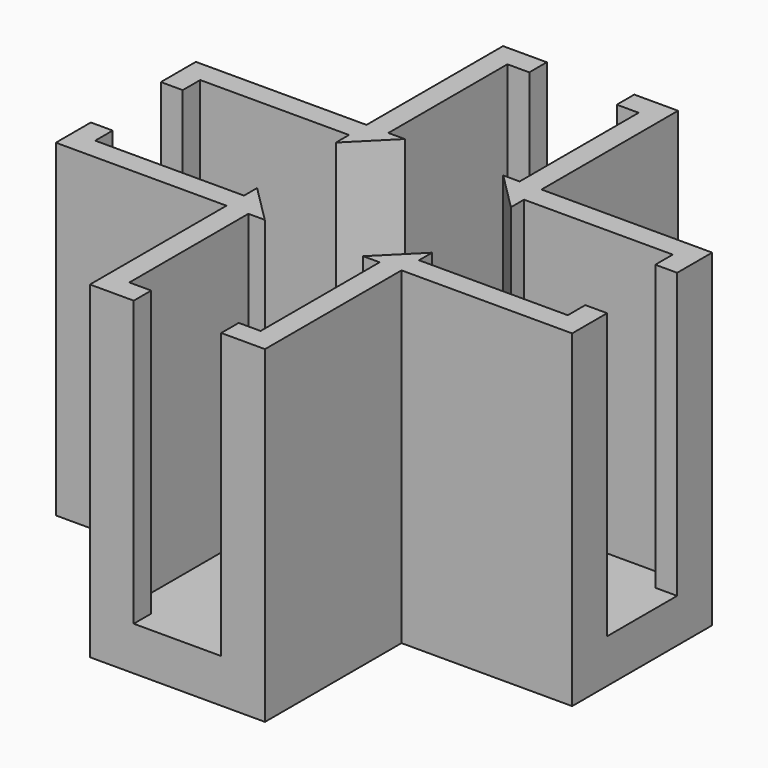
from build123d import *

# Parameters (mm, degrees)
PAD052_DEPTH          = 15
BOX006_W              = 4
BOX006_H              = 15
BOX006_DEPTH          = 12
POLARPATTERN021_COUNT = 4
PAD053_DEPTH          = 2
CYLINDER079_R         = 1.75
CYLINDER079_DEPTH     = 5


with BuildPart() as part:
    # Sketch087 → Pad052 (new body)
    with BuildSketch(Plane.XY):
        Polygon((-11.8, 4), (-4, 4), (-4, 11.8), (4, 11.8), (4, 4), (11.8, 4), (11.8, -4), (4, -4), (4, -11.8), (-4, -11.8), (-4, -4), (-11.8, -4), align=None)
        Polygon((-3, 10.8), (3, 10.8), (3, 4), (2.25, 4), (4, 2.25), (4, 3), (10.8, 3), (10.8, -3), (4, -3), (4, -2.25), (2.25, -4), (3, -4), (3, -10.8), (-3, -10.8), (-3, -4), (-2.25, -4), (-4, -2.25), (-4, -3), (-10.8, -3), (-10.8, 3), (-4, 3), (-4, 2.25), (-2.25, 4), (-3, 4), align=None, mode=Mode.SUBTRACT)
    extrude(amount=PAD052_DEPTH)

    # Box006 → Box006 (cut)
    with BuildSketch(Plane(origin=(-2, 0, 2), x_dir=(1, 0, 0), z_dir=(0, -1, 0))):
        with Locations((2, 7.5)):
            Rectangle(BOX006_W, BOX006_H)
    box006 = extrude(amount=BOX006_DEPTH, mode=Mode.SUBTRACT)

    # PolarPattern021: Box006 ×4 about axis
    polarpattern021_axis = Axis((0, 0, 0), (0, 0, 1))
    for i in range(1, POLARPATTERN021_COUNT):
        add(box006.rotate(polarpattern021_axis, i * 360 / POLARPATTERN021_COUNT), mode=Mode.SUBTRACT)

    # Sketch088 → Pad053 (join)
    with BuildSketch(Plane.XY):
        Polygon((-4, 11.8), (-4, 4), (-11.8, 4), (-11.8, -4), (-4, -4), (-4, -11.8), (4, -11.8), (4, -4), (11.8, -4), (11.8, 4), (4, 4), (4, 11.8), align=None)
    extrude(amount=PAD053_DEPTH)

    # Sphere003 → Sphere003 (revolve)
    with BuildSketch(Plane(origin=(0, 0, 0), x_dir=(-1, 0, 0), z_dir=(0, -1, 0))):
        with BuildLine():
            ThreePointArc((0, -4.5), (3.181981, -3.181981), (4.5, 0))
            Line((4.5, 0), (0, 0))
            Line((0, 0), (0, -4.5))
        make_face()
    revolve(axis=Axis((0, 0, 0), (0, 0, -1)))

    # Cylinder079 → Cylinder079 (cut)
    with BuildSketch(Plane.XY):
        Circle(CYLINDER079_R)
    extrude(amount=CYLINDER079_DEPTH, mode=Mode.SUBTRACT)

    # Sphere002 → Sphere002 (revolve, cut)
    with BuildSketch(Plane.XZ):
        with BuildLine():
            ThreePointArc((0, -3.5), (3.5, 0), (0, 3.5))
            Line((0, 3.5), (0, -3.5))
        make_face()
    revolve(axis=Axis((0, 0, 0), (0, 0, 1)), mode=Mode.SUBTRACT)


with BuildPart() as part_1:
    # Body077 placement: moved
    add(part.part.moved(Location((0, 40, -2.5))))


solid = part_1.part
